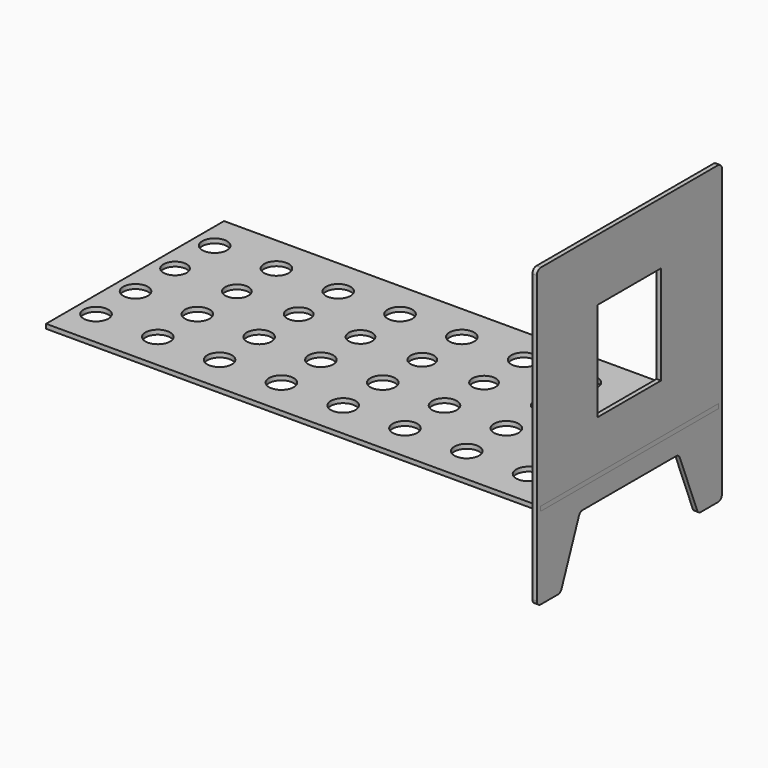
from build123d import *

# Parameters (mm, degrees)
F0_W     = 320
F0_H     = 400
F1_DEPTH = 18
F2_R     = 20
F4_W     = 2000
F4_H     = 900
F5_DEPTH = 18
F7_R     = 50
F7_R_2   = 47.0619138389
F8_DEPTH = 25


with BuildPart() as f1:
    # F0 (on Right) → F1 (new body)
    with BuildSketch(Plane.YZ):
        Polygon((468, 600), (-468, 600), (-468, -600), (-348, -600), (-250, -350), (250, -350), (348, -600), (468, -600), align=None)
        with Locations((0, 150)):
            Rectangle(F0_W, F0_H, mode=Mode.SUBTRACT)
    extrude(amount=F1_DEPTH)

    # F2
    f2_edges = [f1.edges().sort_by_distance(p)[0] for p in [
        (9, -468, 600),
        (9, 468, 600),
        (9, 468, -600),
        (9, 348, -600),
        (9, 250, -350),
        (9, -250, -350),
        (9, -348, -600),
        (9, -468, -600),
    ]]
    fillet(f2_edges, radius=F2_R)


with BuildPart() as f5:
    # F4 (on offset) → F5 (new body)
    with BuildSketch(Plane(origin=(0, 0, -250), x_dir=(1, 0, 0), z_dir=(0, 0, -1))):
        with Locations((-982, 0)):
            Rectangle(F4_W, F4_H)
    extrude(amount=F5_DEPTH)

    # F7 (on face) → F8 (cut)
    with BuildSketch(Plane.XY.offset(-250)):
        with Locations((-150, 300)):
            Circle(F7_R)
        with Locations((-150, 100)):
            Circle(F7_R_2)
        with Locations((-150, -100)):
            Circle(F7_R)
        with Locations((-150, -300)):
            Circle(F7_R)
        with Locations((-400, -300)):
            Circle(F7_R)
        with Locations((-400, -100)):
            Circle(F7_R)
        with Locations((-400, 300)):
            Circle(F7_R)
        with Locations((-400, 100)):
            Circle(F7_R_2)
        with Locations((-650, 100)):
            Circle(F7_R_2)
        with Locations((-650, 300)):
            Circle(F7_R)
        with Locations((-650, -300)):
            Circle(F7_R)
        with Locations((-650, -100)):
            Circle(F7_R)
        with Locations((-900, 100)):
            Circle(F7_R_2)
        with Locations((-900, -300)):
            Circle(F7_R)
        with Locations((-900, 300)):
            Circle(F7_R)
        with Locations((-900, -100)):
            Circle(F7_R)
        with Locations((-1900, -300)):
            Circle(F7_R)
        with Locations((-1650, -100)):
            Circle(F7_R)
        with Locations((-1650, 100)):
            Circle(F7_R_2)
        with Locations((-1900, -100)):
            Circle(F7_R)
        with Locations((-1900, 100)):
            Circle(F7_R_2)
        with Locations((-1650, 300)):
            Circle(F7_R)
        with Locations((-1900, 300)):
            Circle(F7_R)
        with Locations((-1150, -300)):
            Circle(F7_R)
        with Locations((-1400, -100)):
            Circle(F7_R)
        with Locations((-1150, 100)):
            Circle(F7_R_2)
        with Locations((-1400, 300)):
            Circle(F7_R)
        with Locations((-1150, -100)):
            Circle(F7_R)
        with Locations((-1400, 100)):
            Circle(F7_R_2)
        with Locations((-1650, -300)):
            Circle(F7_R)
        with Locations((-1400, -300)):
            Circle(F7_R)
        with Locations((-1150, 300)):
            Circle(F7_R)
    extrude(amount=-F8_DEPTH, mode=Mode.SUBTRACT)


solid = Compound([f1.part, f5.part])
